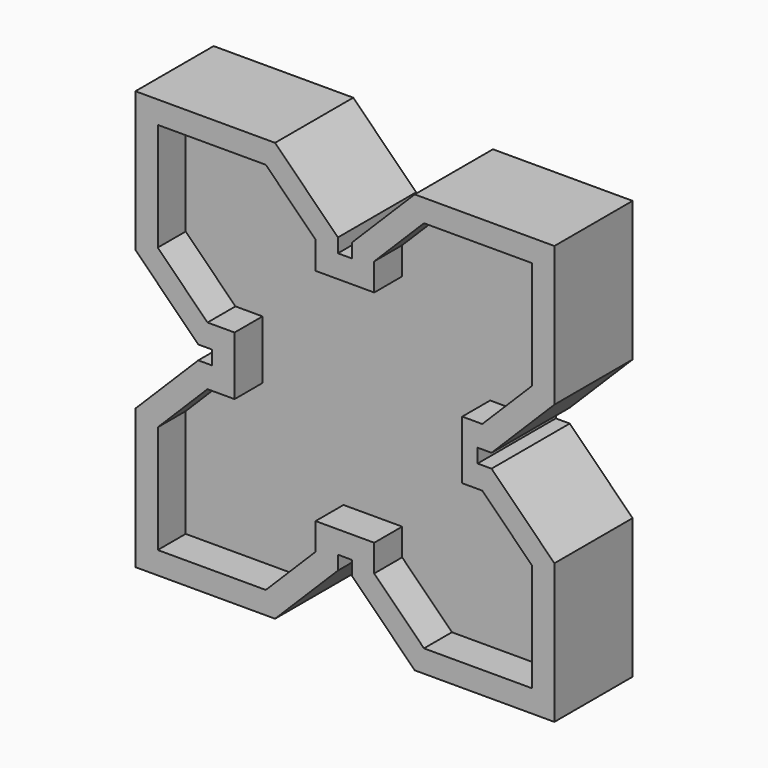
from build123d import *

# Parameters (mm, degrees)
F1_DEPTH = 17.5
F2_DEPTH = 5


with BuildPart() as f1:
    # F0 (on Front) → F1 (new body, symmetric)
    with BuildSketch(Plane.XZ):
        Polygon((0, 50), (0, 0), (50, 0), (72.5, 22.5), (72.5, 27.5), (77.5, 27.5), (77.5, 22.5), (100, 0), (150, 0), (150, 50), (127.5, 72.5), (122.5, 72.5), (122.5, 77.5), (127.5, 77.5), (150, 100), (150, 150), (100, 150), (77.5, 127.5), (77.5, 122.5), (72.5, 122.5), (72.5, 127.5), (50, 150), (0, 150), (0, 100), (22.5, 77.5), (27.5, 77.5), (27.5, 72.5), (22.5, 72.5), align=None)
        Polygon((8, 103.313708), (8, 142), (46.686292, 142), (64.5, 124.186292), (64.5, 114.361256), (85.5, 114.361256), (85.5, 124.186292), (103.313708, 142), (142, 142), (142, 103.313708), (124.186292, 85.5), (117, 85.5), (117, 64.5), (124.186292, 64.5), (142, 46.686292), (142, 8), (103.313708, 8), (85.5, 25.813708), (85.5, 35.5), (64.5, 35.5), (64.5, 25.813708), (46.686292, 8), (8, 8), (8, 46.686292), (25.813708, 64.5), (35.5, 64.5), (35.5, 85.5), (25.813708, 85.5), align=None, mode=Mode.SUBTRACT)
    extrude(amount=F1_DEPTH, both=True)

    # F0 (on Front) → F2 (join, symmetric)
    with BuildSketch(Plane.XZ):
        Polygon((46.686292, 142), (8, 142), (8, 103.313708), (25.813708, 85.5), (35.5, 85.5), (35.5, 64.5), (25.813708, 64.5), (8, 46.686292), (8, 8), (46.686292, 8), (64.5, 25.813708), (64.5, 35.5), (85.5, 35.5), (85.5, 25.813708), (103.313708, 8), (142, 8), (142, 46.686292), (124.186292, 64.5), (117, 64.5), (117, 85.5), (124.186292, 85.5), (142, 103.313708), (142, 142), (103.313708, 142), (85.5, 124.186292), (85.5, 114.361256), (64.5, 114.361256), (64.5, 124.186292), align=None)
    extrude(amount=F2_DEPTH, both=True)


solid = f1.part
